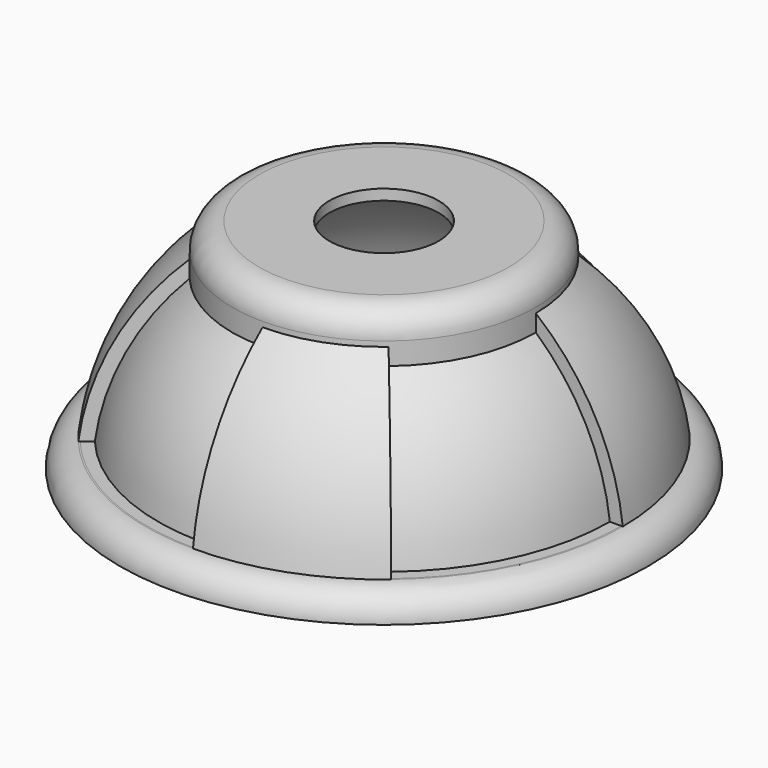
from build123d import *

# Parameters (mm, degrees)
F2_ANGLE = 40
F3_COUNT = 4
F4_R     = 6.477
F5_DEPTH = 25.4


with BuildPart() as f1:
    # F0 (on Front) → F1 (revolve)
    with BuildSketch(Plane.XZ):
        with BuildLine():
            Line((0, 25.452), (0, 25.8772801608))
            Line((0, 25.8772801608), (-7.6204296126, 25.8772801608))
            ThreePointArc((-7.6204296126, 25.8772801608), (-13.1374862604, 23.5607943575), (-18.0081613362, 20.0850865393))
            Line((-18.0081613362, 20.0850865393), (-18.0081613362, 19.8241155595))
            Line((-18.0081613362, 19.8241155595), (-15.9627299133, 19.8241155595))
            ThreePointArc((-15.9627299133, 19.8241155595), (-8.46288706, 24.0038298321), (0, 25.452))
        make_face()
        with BuildLine():
            Line((-7.6204296126, 25.8772801608), (-11.9422096565, 25.8772801608))
            ThreePointArc((-11.9422096565, 25.8772801608), (-15.0944548323, 24.1745203327), (-18.0081613362, 22.0897289547))
            Line((-18.0081613362, 22.0897289547), (-18.0081613362, 20.0850865393))
            ThreePointArc((-18.0081613362, 20.0850865393), (-13.1374862604, 23.5607943575), (-7.6204296126, 25.8772801608))
        make_face()
        with BuildLine():
            ThreePointArc((-18.0081613362, 22.0897289547), (-15.0944548323, 24.1745203327), (-11.9422096565, 25.8772801608))
            Line((-11.9422096565, 25.8772801608), (-14.8331613362, 25.8772801608))
            ThreePointArc((-14.8331613362, 25.8772801608), (-17.0782253665, 24.9473441911), (-18.0081613362, 22.7022801608))
            Line((-18.0081613362, 22.7022801608), (-18.0081613362, 22.0897289547))
        make_face()
        with BuildLine():
            ThreePointArc((-18.0081613362, 20.0850865393), (-23.9403569629, 12.4323724401), (-26.7881585713, 3.1779138371))
            Line((-26.7881585713, 3.1779138371), (-25.2528249438, 3.1779138371))
            ThreePointArc((-25.2528249438, 3.1779138371), (-22.2250871425, 12.4036206613), (-15.9627299133, 19.8241155595))
            Line((-15.9627299133, 19.8241155595), (-18.0081613362, 19.8241155595))
            Line((-18.0081613362, 19.8241155595), (-18.0081613362, 20.0850865393))
        make_face()
        with BuildLine():
            ThreePointArc((-26.7881585713, 3.1779138371), (-26.9289986968, 1.5917302503), (-26.976, 0))
            Line((-26.976, 0), (-25.452, 0))
            ThreePointArc((-25.452, 0), (-25.4021574327, 1.5920746731), (-25.2528249438, 3.1779138371))
            Line((-25.2528249438, 3.1779138371), (-26.7881585713, 3.1779138371))
        make_face()
        with BuildLine():
            ThreePointArc((-28.3227948385, 3.1732148584), (-28.4556642243, 1.5890794668), (-28.5, 0))
            Line((-28.5, 0), (-26.976, 0))
            ThreePointArc((-26.976, 0), (-26.9289986968, 1.5917302503), (-26.7881585713, 3.1779138371))
            Line((-26.7881585713, 3.1779138371), (-28.1501204789, 3.1779138371))
            ThreePointArc((-28.1501204789, 3.1779138371), (-28.236489621, 3.176738875), (-28.3227948385, 3.1732148584))
        make_face()
        with BuildLine():
            Line((-31.3251204789, 0), (-28.5, 0))
            ThreePointArc((-28.5, 0), (-28.4556642243, 1.5890794668), (-28.3227948385, 3.1732148584))
            ThreePointArc((-28.3227948385, 3.1732148584), (-30.4554258916, 2.1860748376), (-31.3251204789, 0.0029138371))
            Line((-31.3251204789, 0.0029138371), (-31.3251204789, 0))
        make_face()
    revolve(axis=Axis((0, 0, 14.25), (0, 0, 1)))

    # F0 (on Front) → F2 (revolve)
    with BuildSketch(Plane.XZ):
        with BuildLine():
            ThreePointArc((-18.0081613362, 22.0897289547), (-25.0219503917, 13.6437530979), (-28.3227948385, 3.1732148584))
            ThreePointArc((-28.3227948385, 3.1732148584), (-28.236489621, 3.176738875), (-28.1501204789, 3.1779138371))
            Line((-28.1501204789, 3.1779138371), (-26.7881585713, 3.1779138371))
            ThreePointArc((-26.7881585713, 3.1779138371), (-23.9403569629, 12.4323724401), (-18.0081613362, 20.0850865393))
            Line((-18.0081613362, 20.0850865393), (-18.0081613362, 22.0897289547))
        make_face()
    revolve(axis=Axis((0, 0, 14.25), (0, 0, 1)), revolution_arc=F2_ANGLE)

    # F3: F1 ×4 about axis
    f3_axis = Axis((0, 0, 14.25), (0, 0, 1))


with BuildPart() as f1_1:
    add(f1.part)
    for i in range(1, F3_COUNT):
        add(f1.part.rotate(f3_axis, i * 360 / F3_COUNT))

    # F4 (on face) → F5 (cut)
    with BuildSketch(Plane.XY.offset(25.8772801608)):
        Circle(F4_R)
    extrude(amount=-F5_DEPTH, mode=Mode.SUBTRACT)


solid = f1_1.part
